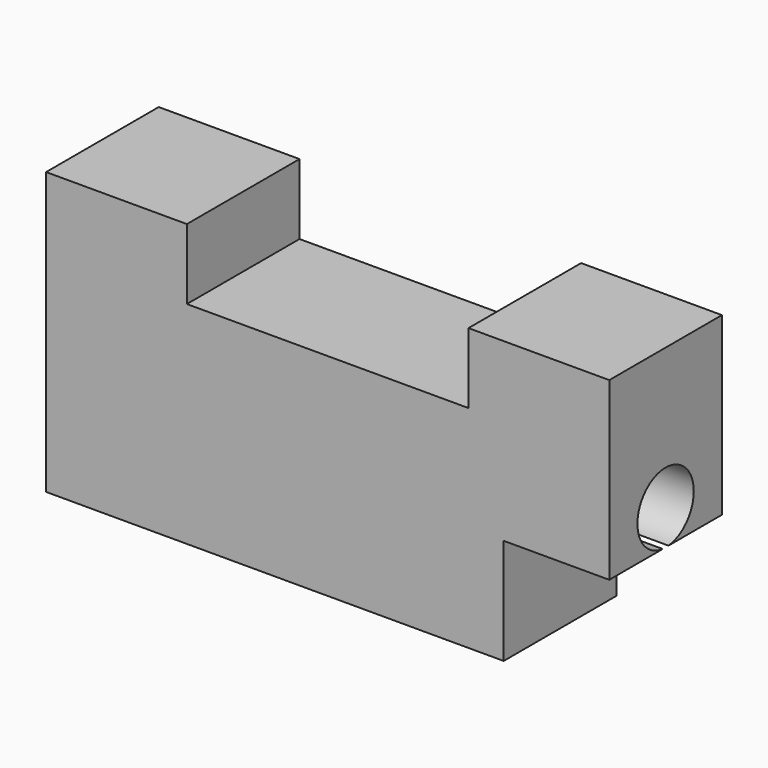
from build123d import *

# Parameters (mm, degrees)
F0_W     = 101.6
F0_H     = 50.8
F1_DEPTH = 25.4
F2_W     = 25.4
F2_H     = 19.083421053
F3_DEPTH = 19.05
F4_W     = 50.8
F4_H     = 25.4
F5_DEPTH = 12.7
F6_R     = 6.35
F7_DEPTH = 101.601


with BuildPart() as f1:
    # F0 (on Front) → F1 (new body)
    with BuildSketch(Plane.XZ):
        Rectangle(F0_W, F0_H)
    extrude(amount=F1_DEPTH)

    # F2 (on face) → F3 (cut)
    with BuildSketch(Plane.YZ.offset(50.8)):
        with Locations((-12.7, -15.8582894735)):
            Rectangle(F2_W, F2_H)
    extrude(amount=-F3_DEPTH, mode=Mode.SUBTRACT)

    # F4 (on face) → F5 (cut)
    with BuildSketch(Plane.XY.offset(25.4)):
        with Locations((0, -12.7)):
            Rectangle(F4_W, F4_H)
    extrude(amount=-F5_DEPTH, mode=Mode.SUBTRACT)

    # F6 (on face) → F7 (cut, through all)
    with BuildSketch(Plane.YZ.offset(50.8)):
        with Locations((-12.7, 0)):
            Circle(F6_R)
    extrude(amount=-F7_DEPTH, mode=Mode.SUBTRACT)


solid = f1.part
